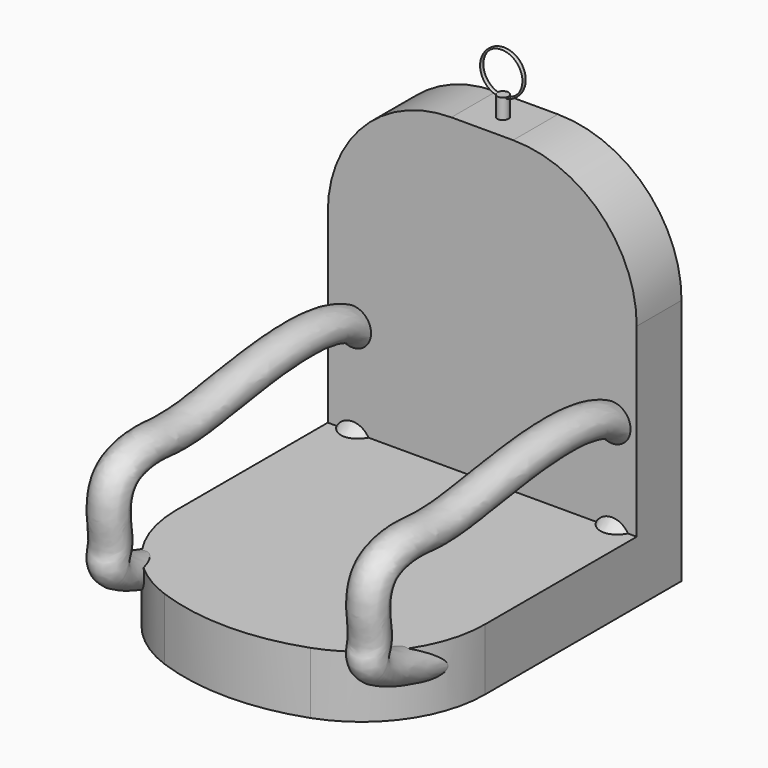
from build123d import *

# Parameters (mm, degrees)
F1_DEPTH  = 2.54
F2_W      = 12.7
F2_H      = 2.3024464026
F3_DEPTH  = 12.7
F4_R      = 5.08
F5_R      = 0.762
F9_R      = 0.2286
F10_DEPTH = 0.8128
F13_R     = 0.0760190438


with BuildPart() as f1:
    # F0 (on Top) → F1 (new body)
    with BuildSketch(Plane.XY):
        with BuildLine():
            Line((6.4939047046, 2.0906057348), (-6.2060952954, 2.0906057348))
            Line((-6.2060952954, 2.0906057348), (-6.2060952954, -10.6093942652))
            ThreePointArc((-6.2060952954, -10.6093942652), (0.1439047046, -13.3084170947), (6.4939047046, -10.6093942652))
            Line((6.4939047046, -10.6093942652), (6.4939047046, 2.0906057348))
        make_face()
    extrude(amount=F1_DEPTH)

    # F2 (on face) → F3 (join)
    with BuildSketch(Plane.XY.offset(2.54)):
        with Locations((0.1439047046, 0.9393825335)):
            Rectangle(F2_W, F2_H)
    extrude(amount=F3_DEPTH)

    # F4
    f4_edges = [f1.edges().sort_by_distance(p)[0] for p in [
        (-6.206095, 0.939383, 15.24),
        (6.493905, 0.939383, 15.24),
        (6.493905, -10.609394, 1.27),
        (-6.206095, -10.609394, 1.27),
    ]]
    fillet(f4_edges, radius=F4_R)

    # F8: sweep along a path in F7
    with BuildLine(Plane.YZ.offset(5.4779047046)) as f8_path:
        add(Plane.YZ.offset(5.4779047046) * Edge.make_bspline(
            [(-0.2065912267, 6.4265499823), (-2.1309370898, 7.7776670966), (-8.6130651411, 6.0579310069), (-10.7765009642, 6.5848365831), (-12.6182897257, 6.1031590034), (-12.8867429223, 4.706073155), (-12.6228515153, 3.5151712379), (-13.422244024, 1.7923677043), (1.7151985529, -0.6787020166), (1.1973272721, 5.4408340841), (-0.2065912267, 6.4265499823)],
            knots=[0, 0, 0, 0, 0.1988192005, 0.3070878794, 0.3924148908, 0.4693951225, 0.5451466907, 0.6136455845, 0.8549502151, 1, 1, 1, 1], degree=3))
    # F5 (on face) → F8 (sweep)
    with BuildSketch(Plane.XZ.offset(0.2118406678)):
        with Locations((5.4779047046, 6.35)):
            Circle(F5_R)
        with Locations((-5.1900952954, 6.35)):
            Circle(F5_R)
    sweep(path=f8_path.line)

    # F9 (on face) → F10 (join)
    with BuildSketch(Plane.XY.offset(15.24)):
        with Locations((0.1439047046, 0.8510658517)):
            Circle(F9_R)
    extrude(amount=F10_DEPTH)

    # F14: sweep along a path in F12
    with BuildLine(Plane(origin=(0, 0.8460057348, 0), x_dir=(-1, 0, 0), z_dir=(0, 1, 0))) as f14_path:
        CenterArc((-0.1458644547, 16.8426521122), 0.5142809284, 0, 360)
    # F13 (on face) → F14 (sweep)
    with BuildSketch(Plane.XY.offset(16.0528)):
        with Locations((0.5080688279, 0.8464861894)):
            Circle(F13_R)
    sweep(path=f14_path.line)


solid = f1.part
